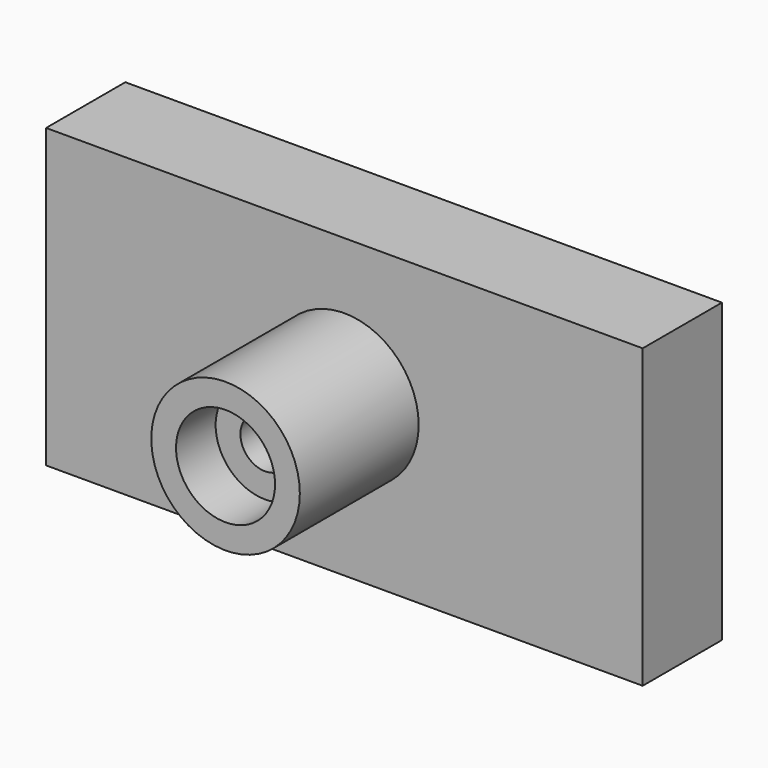
from build123d import *

# Parameters (mm, degrees)
F1_DEPTH = 20
F2_R     = 5
F3_DEPTH = 20.001
F4_R     = 10
F4_R_2   = 5
F5_DEPTH = 20
F6_R     = 15
F6_R_2   = 10
F8_DEPTH = 30
F10_R    = 21.3207738462


with BuildPart() as f1:
    # F0 (on Front) → F1 (new body)
    with BuildSketch(Plane.XZ):
        Polygon((45.2439381182, 28.3381881281), (0, 28.3381881281), (0, -31.6618118719), (45.2439381182, -31.6618118719), (50.2439381182, -31.6618118719), (55.2439381182, -31.6618118719), (60.2439381182, -31.6618118719), (60.2439381182, 28.3381881281), align=None)
        Polygon((0, -31.6618118719), (0, 28.3381881281), (-45.2439381182, 28.3381881281), (-60.2439381182, 28.3381881281), (-60.2439381182, -31.6618118719), (-55.2439381182, -31.6618118719), (-50.2439381182, -31.6618118719), (-45.2439381182, -31.6618118719), align=None)
    extrude(amount=F1_DEPTH)

    # F2 (on face) → F3 (cut, through all)
    with BuildSketch(Plane.XZ.offset(20)):
        Circle(F2_R)
    extrude(amount=-F3_DEPTH, mode=Mode.SUBTRACT)

    # F4 (on face) → F5 (join)
    with BuildSketch(Plane.XZ.offset(20)):
        Circle(F4_R)
        Circle(F4_R_2, mode=Mode.SUBTRACT)
    extrude(amount=F5_DEPTH)

    # F6 (on face) → F8 (join)
    with BuildSketch(Plane.XZ.offset(20)):
        Circle(F6_R)
        Circle(F6_R_2, mode=Mode.SUBTRACT)
    extrude(amount=F8_DEPTH)


with BuildPart() as f11:
    # F10 (on offset) → F11 section 0
    with BuildSketch(Plane.XZ.offset(-20), mode=Mode.PRIVATE) as f11_s0:
        with Locations((0, -11.8679488078)):
            Circle(F10_R)
    loft([Vertex(0, 0, 0), f11_s0.sketch])


solid = Compound([f1.part, f11.part])
